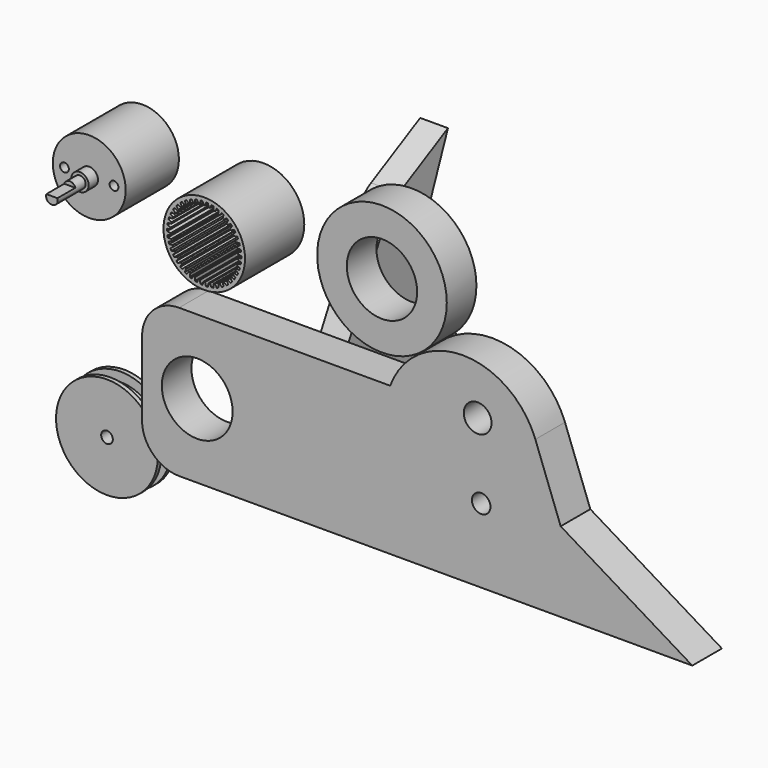
from build123d import *

# Parameters (mm, degrees)
F0_R      = 13.98243
F1_DEPTH  = 25.4
F2_R      = 22.225
F2_R_2    = 12.065
F3_DEPTH  = 12.7
F4_R      = 12.5
F5_DEPTH  = 22.81
F6_R      = 3
F7_DEPTH  = 4
F8_R      = 2
F9_DEPTH  = 12
F11_DEPTH = 7.6708
F12_R     = 1.5
F13_DEPTH = 12.7
F14_R     = 2.635366
F15_DEPTH = 2.54
F16_R     = 14.3256
F17_DEPTH = 4.3
F18_R     = 17.475623
F19_DEPTH = 1.5
F20_R     = 17.469868
F21_DEPTH = 1.5
F22_R     = 6.35
F23_DEPTH = 4.6
F24_R     = 2
F25_DEPTH = 44.911
F27_DEPTH = 12.7
F28_R     = 12.1412
F28_R_2   = 3.175
F28_R_3   = 4.7625
F29_DEPTH = 18.801
F31_DEPTH = 9.525


with BuildPart() as f1:
    # F0 (on Front) → F1 (new body)
    with BuildSketch(Plane.XZ):
        with BuildLine():
            Line((11.531754, 41.759685), (12.694844, 41.522345))
            ThreePointArc((12.694844, 41.522345), (12.683065, 41.816135), (12.664488, 42.109573))
            ThreePointArc((12.664488, 42.109573), (12.639123, 42.402502), (12.606983, 42.694766))
            Line((12.606983, 42.694766), (11.492258, 42.286727))
            Line((11.492258, 42.286727), (11.512006, 42.023206))
            Line((11.512006, 42.023206), (11.531754, 41.759685))
        make_face()
        with BuildLine():
            ThreePointArc((12.664488, 40.211428), (12.683065, 40.504866), (12.694844, 40.798656))
            Line((12.694844, 40.798656), (11.531754, 40.561315))
            Line((11.531754, 40.561315), (11.512006, 40.297795))
            Line((11.512006, 40.297795), (11.492258, 40.034274))
            Line((11.492258, 40.034274), (12.606983, 39.626235))
            ThreePointArc((12.606983, 39.626235), (12.639123, 39.918499), (12.664488, 40.211428))
        make_face()
        with BuildLine():
            Line((11.31365, 43.471712), (12.499123, 43.410372))
            ThreePointArc((12.499123, 43.410372), (12.443689, 43.699125), (12.381584, 43.986516))
            ThreePointArc((12.381584, 43.986516), (12.312844, 44.272393), (12.237503, 44.556603))
            Line((12.237503, 44.556603), (11.196044, 43.98698))
            Line((11.196044, 43.98698), (11.254847, 43.729346))
            Line((11.254847, 43.729346), (11.31365, 43.471712))
        make_face()
        with BuildLine():
            ThreePointArc((12.381584, 38.334485), (12.443689, 38.621876), (12.499123, 38.910629))
            Line((12.499123, 38.910629), (11.31365, 38.849289))
            Line((11.31365, 38.849289), (11.254847, 38.591655))
            Line((11.254847, 38.591655), (11.196044, 38.334021))
            Line((11.196044, 38.334021), (12.237503, 37.764398))
            ThreePointArc((12.237503, 37.764398), (12.312844, 38.048608), (12.381584, 38.334485))
        make_face()
        with BuildLine():
            Line((10.842818, 45.13211), (12.024192, 45.24814))
            ThreePointArc((12.024192, 45.24814), (11.926341, 45.525406), (11.822097, 45.800331))
            ThreePointArc((11.822097, 45.800331), (11.711516, 46.07277), (11.594658, 46.342576))
            Line((11.594658, 46.342576), (10.649728, 45.624094))
            Line((10.649728, 45.624094), (10.746273, 45.378102))
            Line((10.746273, 45.378102), (10.842818, 45.13211))
        make_face()
        with BuildLine():
            ThreePointArc((11.822097, 36.520669), (11.926341, 36.795595), (12.024192, 37.072861))
            Line((12.024192, 37.072861), (10.842818, 37.188891))
            Line((10.842818, 37.188891), (10.746273, 36.942899))
            Line((10.746273, 36.942899), (10.649728, 36.696907))
            Line((10.649728, 36.696907), (11.594658, 35.978425))
            ThreePointArc((11.594658, 35.978425), (11.711516, 36.248231), (11.822097, 36.520669))
        make_face()
        with BuildLine():
            Line((10.129775, 46.703788), (11.280661, 46.994598))
            ThreePointArc((11.280661, 46.994598), (11.142578, 47.254182), (10.998523, 47.5105))
            ThreePointArc((10.998523, 47.5105), (10.848572, 47.763415), (10.692807, 48.012791))
            Line((10.692807, 48.012791), (9.865515, 47.161499))
            Line((9.865515, 47.161499), (9.997645, 46.932644))
            Line((9.997645, 46.932644), (10.129775, 46.703788))
        make_face()
        with BuildLine():
            ThreePointArc((10.998523, 34.8105), (11.142578, 35.066819), (11.280661, 35.326403))
            Line((11.280661, 35.326403), (10.129775, 35.617213))
            Line((10.129775, 35.617213), (9.997645, 35.388357))
            Line((9.997645, 35.388357), (9.865515, 35.159502))
            Line((9.865515, 35.159502), (10.692807, 34.30821))
            ThreePointArc((10.692807, 34.30821), (10.848572, 34.557586), (10.998523, 34.8105))
        make_face()
        with BuildLine():
            Line((9.190449, 48.151639), (10.285138, 48.610731))
            ThreePointArc((10.285138, 48.610731), (10.109908, 48.846836), (9.92926, 49.078821))
            ThreePointArc((9.92926, 49.078821), (9.743289, 49.306562), (9.552096, 49.529936))
            Line((9.552096, 49.529936), (8.860923, 48.564852))
            Line((8.860923, 48.564852), (9.025686, 48.358245))
            Line((9.025686, 48.358245), (9.190449, 48.151639))
        make_face()
        with BuildLine():
            ThreePointArc((9.92926, 33.24218), (10.109908, 33.474165), (10.285138, 33.71027))
            Line((10.285138, 33.71027), (9.190449, 34.169362))
            Line((9.190449, 34.169362), (9.025686, 33.962756))
            Line((9.025686, 33.962756), (8.860923, 33.756149))
            Line((8.860923, 33.756149), (9.552096, 32.791064))
            ThreePointArc((9.552096, 32.791064), (9.743289, 33.014439), (9.92926, 33.24218))
        make_face()
        with BuildLine():
            Line((8.045825, 49.443319), (9.059862, 50.060438))
            ThreePointArc((9.059862, 50.060438), (8.8514, 50.26779), (8.638194, 50.470259))
            ThreePointArc((8.638194, 50.470259), (8.420357, 50.667739), (8.198007, 50.860123))
            Line((8.198007, 50.860123), (7.658393, 49.802803))
            Line((7.658393, 49.802803), (7.852109, 49.623061))
            Line((7.852109, 49.623061), (8.045825, 49.443319))
        make_face()
        with BuildLine():
            ThreePointArc((8.638194, 31.850742), (8.8514, 32.053211), (9.059862, 32.260563))
            Line((9.059862, 32.260563), (8.045825, 32.877682))
            Line((8.045825, 32.877682), (7.852109, 32.69794))
            Line((7.852109, 32.69794), (7.658393, 32.518198))
            Line((7.658393, 32.518198), (8.198007, 31.460878))
            ThreePointArc((8.198007, 31.460878), (8.420357, 31.653262), (8.638194, 31.850742))
        make_face()
        with BuildLine():
            Line((6.721469, 50.549975), (7.632204, 51.311336))
            ThreePointArc((7.632204, 51.311336), (7.395166, 51.485301), (7.154165, 51.653733))
            ThreePointArc((7.154165, 51.653733), (6.909328, 51.81654), (6.660789, 51.973636))
            Line((6.660789, 51.973636), (6.284786, 50.8477))
            Line((6.284786, 50.8477), (6.503128, 50.698837))
            Line((6.503128, 50.698837), (6.721469, 50.549975))
        make_face()
        with BuildLine():
            ThreePointArc((7.154165, 30.667268), (7.395166, 30.8357), (7.632204, 31.009665))
            Line((7.632204, 31.009665), (6.721469, 31.771026))
            Line((6.721469, 31.771026), (6.503128, 31.622164))
            Line((6.503128, 31.622164), (6.284786, 31.473301))
            Line((6.284786, 31.473301), (6.660789, 30.347365))
            ThreePointArc((6.660789, 30.347365), (6.909328, 30.504461), (7.154165, 30.667268))
        make_face()
        with BuildLine():
            Line((5.246968, 51.446885), (6.034055, 52.33548))
            ThreePointArc((6.034055, 52.33548), (5.773737, 52.472174), (5.510323, 52.602805))
            ThreePointArc((5.510323, 52.602805), (5.243957, 52.727303), (4.974779, 52.845601))
            Line((4.974779, 52.845601), (4.770788, 51.676201))
            Line((4.770788, 51.676201), (5.008878, 51.561543))
            Line((5.008878, 51.561543), (5.246968, 51.446885))
        make_face()
        with BuildLine():
            ThreePointArc((5.510323, 29.718196), (5.773737, 29.848827), (6.034055, 29.985521))
            Line((6.034055, 29.985521), (5.246968, 30.874116))
            Line((5.246968, 30.874116), (5.008878, 30.759458))
            Line((5.008878, 30.759458), (4.770788, 30.6448))
            Line((4.770788, 30.6448), (4.974779, 29.4754))
            ThreePointArc((4.974779, 29.4754), (5.243957, 29.593698), (5.510323, 29.718196))
        make_face()
        with BuildLine():
            Line((3.655257, 52.114014), (4.301116, 53.109994))
            ThreePointArc((4.301116, 53.109994), (4.023331, 53.206363), (3.743391, 53.296275))
            ThreePointArc((3.743391, 53.296275), (3.461444, 53.379682), (3.177641, 53.45654))
            Line((3.177641, 53.45654), (3.150219, 52.269798))
            Line((3.150219, 52.269798), (3.402738, 52.191906))
            Line((3.402738, 52.191906), (3.655257, 52.114014))
        make_face()
        with BuildLine():
            ThreePointArc((3.743391, 29.024726), (4.023331, 29.114638), (4.301116, 29.211007))
            Line((4.301116, 29.211007), (3.655257, 30.206986))
            Line((3.655257, 30.206986), (3.402738, 30.129095))
            Line((3.402738, 30.129095), (3.150219, 30.051203))
            Line((3.150219, 30.051203), (3.177641, 28.864461))
            ThreePointArc((3.177641, 28.864461), (3.461444, 28.941318), (3.743391, 29.024726))
        make_face()
        with BuildLine():
            Line((1.981895, 52.536461), (2.472096, 53.617576))
            ThreePointArc((2.472096, 53.617576), (2.183051, 53.671467), (1.892837, 53.718652))
            ThreePointArc((1.892837, 53.718652), (1.601608, 53.759106), (1.30952, 53.792807))
            Line((1.30952, 53.792807), (1.459279, 52.615232))
            Line((1.459279, 52.615232), (1.720587, 52.575846))
            Line((1.720587, 52.575846), (1.981895, 52.536461))
        make_face()
        with BuildLine():
            ThreePointArc((1.892837, 28.602349), (2.183051, 28.649534), (2.472096, 28.703425))
            Line((2.472096, 28.703425), (1.981895, 29.78454))
            Line((1.981895, 29.78454), (1.720587, 29.745154))
            Line((1.720587, 29.745154), (1.459279, 29.705769))
            Line((1.459279, 29.705769), (1.30952, 28.528194))
            ThreePointArc((1.30952, 28.528194), (1.601608, 28.561895), (1.892837, 28.602349))
        make_face()
        with BuildLine():
            Line((0.26426, 52.704787), (0.587854, 53.846888))
            ThreePointArc((0.587854, 53.846888), (0.294006, 53.857097), (0, 53.8605))
            ThreePointArc((0, 53.8605), (-0.294006, 53.857097), (-0.587854, 53.846888))
            Line((-0.587854, 53.846888), (-0.26426, 52.704787))
            Line((-0.26426, 52.704787), (0, 52.704787))
            Line((0, 52.704787), (0.26426, 52.704787))
        make_face()
        with BuildLine():
            ThreePointArc((0, 28.4605), (0.294006, 28.463904), (0.587854, 28.474113))
            Line((0.587854, 28.474113), (0.26426, 29.616214))
            Line((0.26426, 29.616214), (0, 29.616214))
            Line((0, 29.616214), (-0.26426, 29.616214))
            Line((-0.26426, 29.616214), (-0.587854, 28.474113))
            ThreePointArc((-0.587854, 28.474113), (-0.294006, 28.463904), (0, 28.4605))
        make_face()
        with BuildLine():
            Line((-1.459279, 52.615232), (-1.30952, 53.792807))
            ThreePointArc((-1.30952, 53.792807), (-1.601608, 53.759106), (-1.892837, 53.718652))
            ThreePointArc((-1.892837, 53.718652), (-2.183051, 53.671467), (-2.472096, 53.617576))
            Line((-2.472096, 53.617576), (-1.981895, 52.536461))
            Line((-1.981895, 52.536461), (-1.720587, 52.575846))
            Line((-1.720587, 52.575846), (-1.459279, 52.615232))
        make_face()
        with BuildLine():
            ThreePointArc((-1.892837, 28.602349), (-1.601608, 28.561895), (-1.30952, 28.528194))
            Line((-1.30952, 28.528194), (-1.459279, 29.705769))
            Line((-1.459279, 29.705769), (-1.720587, 29.745154))
            Line((-1.720587, 29.745154), (-1.981895, 29.78454))
            Line((-1.981895, 29.78454), (-2.472096, 28.703425))
            ThreePointArc((-2.472096, 28.703425), (-2.183051, 28.649534), (-1.892837, 28.602349))
        make_face()
        with BuildLine():
            Line((-3.150219, 52.269798), (-3.177641, 53.45654))
            ThreePointArc((-3.177641, 53.45654), (-3.461444, 53.379682), (-3.743391, 53.296275))
            ThreePointArc((-3.743391, 53.296275), (-4.023331, 53.206363), (-4.301116, 53.109994))
            Line((-4.301116, 53.109994), (-3.655257, 52.114014))
            Line((-3.655257, 52.114014), (-3.402738, 52.191906))
            Line((-3.402738, 52.191906), (-3.150219, 52.269798))
        make_face()
        with BuildLine():
            ThreePointArc((-3.743391, 29.024726), (-3.461444, 28.941318), (-3.177641, 28.864461))
            Line((-3.177641, 28.864461), (-3.150219, 30.051203))
            Line((-3.150219, 30.051203), (-3.402738, 30.129095))
            Line((-3.402738, 30.129095), (-3.655257, 30.206986))
            Line((-3.655257, 30.206986), (-4.301116, 29.211007))
            ThreePointArc((-4.301116, 29.211007), (-4.023331, 29.114638), (-3.743391, 29.024726))
        make_face()
        with BuildLine():
            Line((-4.770788, 51.676201), (-4.974779, 52.845601))
            ThreePointArc((-4.974779, 52.845601), (-5.243957, 52.727303), (-5.510323, 52.602805))
            ThreePointArc((-5.510323, 52.602805), (-5.773737, 52.472174), (-6.034055, 52.33548))
            Line((-6.034055, 52.33548), (-5.246968, 51.446885))
            Line((-5.246968, 51.446885), (-5.008878, 51.561543))
            Line((-5.008878, 51.561543), (-4.770788, 51.676201))
        make_face()
        with BuildLine():
            ThreePointArc((-5.510323, 29.718196), (-5.243957, 29.593698), (-4.974779, 29.4754))
            Line((-4.974779, 29.4754), (-4.770788, 30.6448))
            Line((-4.770788, 30.6448), (-5.008878, 30.759458))
            Line((-5.008878, 30.759458), (-5.246968, 30.874116))
            Line((-5.246968, 30.874116), (-6.034055, 29.985521))
            ThreePointArc((-6.034055, 29.985521), (-5.773737, 29.848827), (-5.510323, 29.718196))
        make_face()
        with BuildLine():
            Line((-6.284786, 50.8477), (-6.660789, 51.973636))
            ThreePointArc((-6.660789, 51.973636), (-6.909328, 51.81654), (-7.154165, 51.653733))
            ThreePointArc((-7.154165, 51.653733), (-7.395166, 51.485301), (-7.632204, 51.311336))
            Line((-7.632204, 51.311336), (-6.721469, 50.549975))
            Line((-6.721469, 50.549975), (-6.503128, 50.698837))
            Line((-6.503128, 50.698837), (-6.284786, 50.8477))
        make_face()
        with BuildLine():
            ThreePointArc((-7.154165, 30.667268), (-6.909328, 30.504461), (-6.660789, 30.347365))
            Line((-6.660789, 30.347365), (-6.284786, 31.473301))
            Line((-6.284786, 31.473301), (-6.503128, 31.622164))
            Line((-6.503128, 31.622164), (-6.721469, 31.771026))
            Line((-6.721469, 31.771026), (-7.632204, 31.009665))
            ThreePointArc((-7.632204, 31.009665), (-7.395166, 30.8357), (-7.154165, 30.667268))
        make_face()
        with BuildLine():
            Line((-7.658393, 49.802803), (-8.198007, 50.860123))
            ThreePointArc((-8.198007, 50.860123), (-8.420357, 50.667739), (-8.638194, 50.470259))
            ThreePointArc((-8.638194, 50.470259), (-8.8514, 50.26779), (-9.059862, 50.060438))
            Line((-9.059862, 50.060438), (-8.045825, 49.443319))
            Line((-8.045825, 49.443319), (-7.852109, 49.623061))
            Line((-7.852109, 49.623061), (-7.658393, 49.802803))
        make_face()
        with BuildLine():
            ThreePointArc((-8.638194, 31.850742), (-8.420357, 31.653262), (-8.198007, 31.460878))
            Line((-8.198007, 31.460878), (-7.658393, 32.518198))
            Line((-7.658393, 32.518198), (-7.852109, 32.69794))
            Line((-7.852109, 32.69794), (-8.045825, 32.877682))
            Line((-8.045825, 32.877682), (-9.059862, 32.260563))
            ThreePointArc((-9.059862, 32.260563), (-8.8514, 32.053211), (-8.638194, 31.850742))
        make_face()
        with BuildLine():
            Line((-8.860923, 48.564852), (-9.552096, 49.529936))
            ThreePointArc((-9.552096, 49.529936), (-9.743289, 49.306562), (-9.92926, 49.078821))
            ThreePointArc((-9.92926, 49.078821), (-10.109908, 48.846836), (-10.285138, 48.610731))
            Line((-10.285138, 48.610731), (-9.190449, 48.151639))
            Line((-9.190449, 48.151639), (-9.025686, 48.358245))
            Line((-9.025686, 48.358245), (-8.860923, 48.564852))
        make_face()
        with BuildLine():
            ThreePointArc((-9.92926, 33.24218), (-9.743289, 33.014439), (-9.552096, 32.791064))
            Line((-9.552096, 32.791064), (-8.860923, 33.756149))
            Line((-8.860923, 33.756149), (-9.025686, 33.962756))
            Line((-9.025686, 33.962756), (-9.190449, 34.169362))
            Line((-9.190449, 34.169362), (-10.285138, 33.71027))
            ThreePointArc((-10.285138, 33.71027), (-10.109908, 33.474165), (-9.92926, 33.24218))
        make_face()
        with BuildLine():
            Line((-9.865515, 47.161499), (-10.692807, 48.012791))
            ThreePointArc((-10.692807, 48.012791), (-10.848572, 47.763415), (-10.998523, 47.5105))
            ThreePointArc((-10.998523, 47.5105), (-11.142578, 47.254182), (-11.280661, 46.994598))
            Line((-11.280661, 46.994598), (-10.129775, 46.703788))
            Line((-10.129775, 46.703788), (-9.997645, 46.932644))
            Line((-9.997645, 46.932644), (-9.865515, 47.161499))
        make_face()
        with BuildLine():
            ThreePointArc((-10.998523, 34.8105), (-10.848572, 34.557586), (-10.692807, 34.30821))
            Line((-10.692807, 34.30821), (-9.865515, 35.159502))
            Line((-9.865515, 35.159502), (-9.997645, 35.388357))
            Line((-9.997645, 35.388357), (-10.129775, 35.617213))
            Line((-10.129775, 35.617213), (-11.280661, 35.326403))
            ThreePointArc((-11.280661, 35.326403), (-11.142578, 35.066819), (-10.998523, 34.8105))
        make_face()
        with BuildLine():
            Line((-10.649728, 45.624094), (-11.594658, 46.342576))
            ThreePointArc((-11.594658, 46.342576), (-11.711516, 46.07277), (-11.822097, 45.800331))
            ThreePointArc((-11.822097, 45.800331), (-11.926341, 45.525406), (-12.024192, 45.24814))
            Line((-12.024192, 45.24814), (-10.842818, 45.13211))
            Line((-10.842818, 45.13211), (-10.746273, 45.378102))
            Line((-10.746273, 45.378102), (-10.649728, 45.624094))
        make_face()
        with BuildLine():
            ThreePointArc((-11.822097, 36.520669), (-11.711516, 36.248231), (-11.594658, 35.978425))
            Line((-11.594658, 35.978425), (-10.649728, 36.696907))
            Line((-10.649728, 36.696907), (-10.746273, 36.942899))
            Line((-10.746273, 36.942899), (-10.842818, 37.188891))
            Line((-10.842818, 37.188891), (-12.024192, 37.072861))
            ThreePointArc((-12.024192, 37.072861), (-11.926341, 36.795595), (-11.822097, 36.520669))
        make_face()
        with BuildLine():
            Line((-11.196044, 43.98698), (-12.237503, 44.556603))
            ThreePointArc((-12.237503, 44.556603), (-12.312844, 44.272393), (-12.381584, 43.986516))
            ThreePointArc((-12.381584, 43.986516), (-12.443689, 43.699125), (-12.499123, 43.410372))
            Line((-12.499123, 43.410372), (-11.31365, 43.471712))
            Line((-11.31365, 43.471712), (-11.254847, 43.729346))
            Line((-11.254847, 43.729346), (-11.196044, 43.98698))
        make_face()
        with BuildLine():
            ThreePointArc((-12.381584, 38.334485), (-12.312844, 38.048608), (-12.237503, 37.764398))
            Line((-12.237503, 37.764398), (-11.196044, 38.334021))
            Line((-11.196044, 38.334021), (-11.254847, 38.591655))
            Line((-11.254847, 38.591655), (-11.31365, 38.849289))
            Line((-11.31365, 38.849289), (-12.499123, 38.910629))
            ThreePointArc((-12.499123, 38.910629), (-12.443689, 38.621876), (-12.381584, 38.334485))
        make_face()
        with BuildLine():
            Line((-11.492258, 42.286727), (-12.606983, 42.694766))
            ThreePointArc((-12.606983, 42.694766), (-12.639123, 42.402502), (-12.664488, 42.109573))
            ThreePointArc((-12.664488, 42.109573), (-12.683065, 41.816135), (-12.694844, 41.522345))
            Line((-12.694844, 41.522345), (-11.531754, 41.759685))
            Line((-11.531754, 41.759685), (-11.512006, 42.023206))
            Line((-11.512006, 42.023206), (-11.492258, 42.286727))
        make_face()
        with BuildLine():
            ThreePointArc((-12.664488, 40.211428), (-12.639123, 39.918499), (-12.606983, 39.626235))
            Line((-12.606983, 39.626235), (-11.492258, 40.034274))
            Line((-11.492258, 40.034274), (-11.512006, 40.297795))
            Line((-11.512006, 40.297795), (-11.531754, 40.561315))
            Line((-11.531754, 40.561315), (-12.694844, 40.798656))
            ThreePointArc((-12.694844, 40.798656), (-12.683065, 40.504866), (-12.664488, 40.211428))
        make_face()
        with Locations((0, 41.1605)):
            Circle(F0_R)
        with BuildLine():
            ThreePointArc((12.694844, 41.522345), (12.698711, 41.341441), (12.7, 41.1605))
            ThreePointArc((12.7, 41.1605), (12.698711, 40.97956), (12.694844, 40.798656))
            ThreePointArc((12.694844, 40.798656), (12.683065, 40.504866), (12.664488, 40.211428))
            ThreePointArc((12.664488, 40.211428), (12.639123, 39.918499), (12.606983, 39.626235))
            ThreePointArc((12.606983, 39.626235), (12.558151, 39.267664), (12.499123, 38.910629))
            ThreePointArc((12.499123, 38.910629), (12.443689, 38.621876), (12.381584, 38.334485))
            ThreePointArc((12.381584, 38.334485), (12.312844, 38.048608), (12.237503, 37.764398))
            ThreePointArc((12.237503, 37.764398), (12.135775, 37.41711), (12.024192, 37.072861))
            ThreePointArc((12.024192, 37.072861), (11.926341, 36.795595), (11.822097, 36.520669))
            ThreePointArc((11.822097, 36.520669), (11.711516, 36.248231), (11.594658, 35.978425))
            ThreePointArc((11.594658, 35.978425), (11.442305, 35.650177), (11.280661, 35.326403))
            ThreePointArc((11.280661, 35.326403), (11.142578, 35.066819), (10.998523, 34.8105))
            ThreePointArc((10.998523, 34.8105), (10.848572, 34.557586), (10.692807, 34.30821))
            ThreePointArc((10.692807, 34.30821), (10.493232, 34.006336), (10.285138, 33.71027))
            ThreePointArc((10.285138, 33.71027), (10.109908, 33.474165), (9.92926, 33.24218))
            ThreePointArc((9.92926, 33.24218), (9.743289, 33.014439), (9.552096, 32.791064))
            ThreePointArc((9.552096, 32.791064), (9.309759, 32.522307), (9.059862, 32.260563))
            ThreePointArc((9.059862, 32.260563), (8.8514, 32.053211), (8.638194, 31.850742))
            ThreePointArc((8.638194, 31.850742), (8.420357, 31.653262), (8.198007, 31.460878))
            ThreePointArc((8.198007, 31.460878), (7.91832, 31.231241), (7.632204, 31.009665))
            ThreePointArc((7.632204, 31.009665), (7.395166, 30.8357), (7.154165, 30.667268))
            ThreePointArc((7.154165, 30.667268), (6.909328, 30.504461), (6.660789, 30.347365))
            ThreePointArc((6.660789, 30.347365), (6.35, 30.161978), (6.034055, 29.985521))
            ThreePointArc((6.034055, 29.985521), (5.773737, 29.848827), (5.510323, 29.718196))
            ThreePointArc((5.510323, 29.718196), (5.243957, 29.593698), (4.974779, 29.4754))
            ThreePointArc((4.974779, 29.4754), (4.639831, 29.338404), (4.301116, 29.211007))
            ThreePointArc((4.301116, 29.211007), (4.023331, 29.114638), (3.743391, 29.024726))
            ThreePointArc((3.743391, 29.024726), (3.461444, 28.941318), (3.177641, 28.864461))
            ThreePointArc((3.177641, 28.864461), (2.826016, 28.778916), (2.472096, 28.703425))
            ThreePointArc((2.472096, 28.703425), (2.183051, 28.649534), (1.892837, 28.602349))
            ThreePointArc((1.892837, 28.602349), (1.601608, 28.561895), (1.30952, 28.528194))
            ThreePointArc((1.30952, 28.528194), (0.949072, 28.496012), (0.587854, 28.474113))
            ThreePointArc((0.587854, 28.474113), (0.294006, 28.463904), (0, 28.4605))
            ThreePointArc((0, 28.4605), (-0.294006, 28.463904), (-0.587854, 28.474113))
            ThreePointArc((-0.587854, 28.474113), (-0.949072, 28.496012), (-1.30952, 28.528194))
            ThreePointArc((-1.30952, 28.528194), (-1.601608, 28.561895), (-1.892837, 28.602349))
            ThreePointArc((-1.892837, 28.602349), (-2.183051, 28.649534), (-2.472096, 28.703425))
            ThreePointArc((-2.472096, 28.703425), (-2.826016, 28.778916), (-3.177641, 28.864461))
            ThreePointArc((-3.177641, 28.864461), (-3.461444, 28.941318), (-3.743391, 29.024726))
            ThreePointArc((-3.743391, 29.024726), (-4.023331, 29.114638), (-4.301116, 29.211007))
            ThreePointArc((-4.301116, 29.211007), (-4.639831, 29.338404), (-4.974779, 29.4754))
            ThreePointArc((-4.974779, 29.4754), (-5.243957, 29.593698), (-5.510323, 29.718196))
            ThreePointArc((-5.510323, 29.718196), (-5.773737, 29.848827), (-6.034055, 29.985521))
            ThreePointArc((-6.034055, 29.985521), (-6.35, 30.161978), (-6.660789, 30.347365))
            ThreePointArc((-6.660789, 30.347365), (-6.909328, 30.504461), (-7.154165, 30.667268))
            ThreePointArc((-7.154165, 30.667268), (-7.395166, 30.8357), (-7.632204, 31.009665))
            ThreePointArc((-7.632204, 31.009665), (-7.91832, 31.231241), (-8.198007, 31.460878))
            ThreePointArc((-8.198007, 31.460878), (-8.420357, 31.653262), (-8.638194, 31.850742))
            ThreePointArc((-8.638194, 31.850742), (-8.8514, 32.053211), (-9.059862, 32.260563))
            ThreePointArc((-9.059862, 32.260563), (-9.309759, 32.522307), (-9.552096, 32.791064))
            ThreePointArc((-9.552096, 32.791064), (-9.743289, 33.014439), (-9.92926, 33.24218))
            ThreePointArc((-9.92926, 33.24218), (-10.109908, 33.474165), (-10.285138, 33.71027))
            ThreePointArc((-10.285138, 33.71027), (-10.493232, 34.006336), (-10.692807, 34.30821))
            ThreePointArc((-10.692807, 34.30821), (-10.848572, 34.557586), (-10.998523, 34.8105))
            ThreePointArc((-10.998523, 34.8105), (-11.142578, 35.066819), (-11.280661, 35.326403))
            ThreePointArc((-11.280661, 35.326403), (-11.442305, 35.650177), (-11.594658, 35.978425))
            ThreePointArc((-11.594658, 35.978425), (-11.711516, 36.248231), (-11.822097, 36.520669))
            ThreePointArc((-11.822097, 36.520669), (-11.926341, 36.795595), (-12.024192, 37.072861))
            ThreePointArc((-12.024192, 37.072861), (-12.135775, 37.41711), (-12.237503, 37.764398))
            ThreePointArc((-12.237503, 37.764398), (-12.312844, 38.048608), (-12.381584, 38.334485))
            ThreePointArc((-12.381584, 38.334485), (-12.443689, 38.621876), (-12.499123, 38.910629))
            ThreePointArc((-12.499123, 38.910629), (-12.558151, 39.267664), (-12.606983, 39.626235))
            ThreePointArc((-12.606983, 39.626235), (-12.639123, 39.918499), (-12.664488, 40.211428))
            ThreePointArc((-12.664488, 40.211428), (-12.683065, 40.504866), (-12.694844, 40.798656))
            ThreePointArc((-12.694844, 40.798656), (-12.7, 41.1605), (-12.694844, 41.522345))
            ThreePointArc((-12.694844, 41.522345), (-12.683065, 41.816135), (-12.664488, 42.109573))
            ThreePointArc((-12.664488, 42.109573), (-12.639123, 42.402502), (-12.606983, 42.694766))
            ThreePointArc((-12.606983, 42.694766), (-12.558151, 43.053337), (-12.499123, 43.410372))
            ThreePointArc((-12.499123, 43.410372), (-12.443689, 43.699125), (-12.381584, 43.986516))
            ThreePointArc((-12.381584, 43.986516), (-12.312844, 44.272393), (-12.237503, 44.556603))
            ThreePointArc((-12.237503, 44.556603), (-12.135775, 44.903891), (-12.024192, 45.24814))
            ThreePointArc((-12.024192, 45.24814), (-11.926341, 45.525406), (-11.822097, 45.800331))
            ThreePointArc((-11.822097, 45.800331), (-11.711516, 46.07277), (-11.594658, 46.342576))
            ThreePointArc((-11.594658, 46.342576), (-11.442305, 46.670824), (-11.280661, 46.994598))
            ThreePointArc((-11.280661, 46.994598), (-11.142578, 47.254182), (-10.998523, 47.5105))
            ThreePointArc((-10.998523, 47.5105), (-10.848572, 47.763415), (-10.692807, 48.012791))
            ThreePointArc((-10.692807, 48.012791), (-10.493232, 48.314665), (-10.285138, 48.610731))
            ThreePointArc((-10.285138, 48.610731), (-10.109908, 48.846836), (-9.92926, 49.078821))
            ThreePointArc((-9.92926, 49.078821), (-9.743289, 49.306562), (-9.552096, 49.529936))
            ThreePointArc((-9.552096, 49.529936), (-9.309759, 49.798694), (-9.059862, 50.060438))
            ThreePointArc((-9.059862, 50.060438), (-8.8514, 50.26779), (-8.638194, 50.470259))
            ThreePointArc((-8.638194, 50.470259), (-8.420357, 50.667739), (-8.198007, 50.860123))
            ThreePointArc((-8.198007, 50.860123), (-7.91832, 51.08976), (-7.632204, 51.311336))
            ThreePointArc((-7.632204, 51.311336), (-7.395166, 51.485301), (-7.154165, 51.653733))
            ThreePointArc((-7.154165, 51.653733), (-6.909328, 51.81654), (-6.660789, 51.973636))
            ThreePointArc((-6.660789, 51.973636), (-6.35, 52.159023), (-6.034055, 52.33548))
            ThreePointArc((-6.034055, 52.33548), (-5.773737, 52.472174), (-5.510323, 52.602805))
            ThreePointArc((-5.510323, 52.602805), (-5.243957, 52.727303), (-4.974779, 52.845601))
            ThreePointArc((-4.974779, 52.845601), (-4.639831, 52.982597), (-4.301116, 53.109994))
            ThreePointArc((-4.301116, 53.109994), (-4.023331, 53.206363), (-3.743391, 53.296275))
            ThreePointArc((-3.743391, 53.296275), (-3.461444, 53.379682), (-3.177641, 53.45654))
            ThreePointArc((-3.177641, 53.45654), (-2.826016, 53.542085), (-2.472096, 53.617576))
            ThreePointArc((-2.472096, 53.617576), (-2.183051, 53.671467), (-1.892837, 53.718652))
            ThreePointArc((-1.892837, 53.718652), (-1.601608, 53.759106), (-1.30952, 53.792807))
            ThreePointArc((-1.30952, 53.792807), (-0.949072, 53.824989), (-0.587854, 53.846888))
            ThreePointArc((-0.587854, 53.846888), (-0.294006, 53.857097), (0, 53.8605))
            ThreePointArc((0, 53.8605), (0.294006, 53.857097), (0.587854, 53.846888))
            ThreePointArc((0.587854, 53.846888), (0.949072, 53.824989), (1.30952, 53.792807))
            ThreePointArc((1.30952, 53.792807), (1.601608, 53.759106), (1.892837, 53.718652))
            ThreePointArc((1.892837, 53.718652), (2.183051, 53.671467), (2.472096, 53.617576))
            ThreePointArc((2.472096, 53.617576), (2.826016, 53.542085), (3.177641, 53.45654))
            ThreePointArc((3.177641, 53.45654), (3.461444, 53.379682), (3.743391, 53.296275))
            ThreePointArc((3.743391, 53.296275), (4.023331, 53.206363), (4.301116, 53.109994))
            ThreePointArc((4.301116, 53.109994), (4.639831, 52.982597), (4.974779, 52.845601))
            ThreePointArc((4.974779, 52.845601), (5.243957, 52.727303), (5.510323, 52.602805))
            ThreePointArc((5.510323, 52.602805), (5.773737, 52.472174), (6.034055, 52.33548))
            ThreePointArc((6.034055, 52.33548), (6.35, 52.159023), (6.660789, 51.973636))
            ThreePointArc((6.660789, 51.973636), (6.909328, 51.81654), (7.154165, 51.653733))
            ThreePointArc((7.154165, 51.653733), (7.395166, 51.485301), (7.632204, 51.311336))
            ThreePointArc((7.632204, 51.311336), (7.91832, 51.08976), (8.198007, 50.860123))
            ThreePointArc((8.198007, 50.860123), (8.420357, 50.667739), (8.638194, 50.470259))
            ThreePointArc((8.638194, 50.470259), (8.8514, 50.26779), (9.059862, 50.060438))
            ThreePointArc((9.059862, 50.060438), (9.309759, 49.798694), (9.552096, 49.529936))
            ThreePointArc((9.552096, 49.529936), (9.743289, 49.306562), (9.92926, 49.078821))
            ThreePointArc((9.92926, 49.078821), (10.109908, 48.846836), (10.285138, 48.610731))
            ThreePointArc((10.285138, 48.610731), (10.493232, 48.314665), (10.692807, 48.012791))
            ThreePointArc((10.692807, 48.012791), (10.848572, 47.763415), (10.998523, 47.5105))
            ThreePointArc((10.998523, 47.5105), (11.142578, 47.254182), (11.280661, 46.994598))
            ThreePointArc((11.280661, 46.994598), (11.442305, 46.670824), (11.594658, 46.342576))
            ThreePointArc((11.594658, 46.342576), (11.711516, 46.07277), (11.822097, 45.800331))
            ThreePointArc((11.822097, 45.800331), (11.926341, 45.525406), (12.024192, 45.24814))
            ThreePointArc((12.024192, 45.24814), (12.135775, 44.903891), (12.237503, 44.556603))
            ThreePointArc((12.237503, 44.556603), (12.312844, 44.272393), (12.381584, 43.986516))
            ThreePointArc((12.381584, 43.986516), (12.443689, 43.699125), (12.499123, 43.410372))
            ThreePointArc((12.499123, 43.410372), (12.558151, 43.053337), (12.606983, 42.694766))
            ThreePointArc((12.606983, 42.694766), (12.639123, 42.402502), (12.664488, 42.109573))
            ThreePointArc((12.664488, 42.109573), (12.683065, 41.816135), (12.694844, 41.522345))
        make_face(mode=Mode.SUBTRACT)
        with BuildLine():
            Line((-6.284786, 50.8477), (-6.660789, 51.973636))
            ThreePointArc((-6.660789, 51.973636), (-6.909328, 51.81654), (-7.154165, 51.653733))
            ThreePointArc((-7.154165, 51.653733), (-7.395166, 51.485301), (-7.632204, 51.311336))
            Line((-7.632204, 51.311336), (-6.721469, 50.549975))
            Line((-6.721469, 50.549975), (-6.503128, 50.698837))
            Line((-6.503128, 50.698837), (-6.284786, 50.8477))
        make_face()
        with BuildLine():
            Line((-7.658393, 49.802803), (-8.198007, 50.860123))
            ThreePointArc((-8.198007, 50.860123), (-8.420357, 50.667739), (-8.638194, 50.470259))
            ThreePointArc((-8.638194, 50.470259), (-8.8514, 50.26779), (-9.059862, 50.060438))
            Line((-9.059862, 50.060438), (-8.045825, 49.443319))
            Line((-8.045825, 49.443319), (-7.852109, 49.623061))
            Line((-7.852109, 49.623061), (-7.658393, 49.802803))
        make_face()
        with BuildLine():
            Line((-8.860923, 48.564852), (-9.552096, 49.529936))
            ThreePointArc((-9.552096, 49.529936), (-9.743289, 49.306562), (-9.92926, 49.078821))
            ThreePointArc((-9.92926, 49.078821), (-10.109908, 48.846836), (-10.285138, 48.610731))
            Line((-10.285138, 48.610731), (-9.190449, 48.151639))
            Line((-9.190449, 48.151639), (-9.025686, 48.358245))
            Line((-9.025686, 48.358245), (-8.860923, 48.564852))
        make_face()
        with BuildLine():
            Line((-9.865515, 47.161499), (-10.692807, 48.012791))
            ThreePointArc((-10.692807, 48.012791), (-10.848572, 47.763415), (-10.998523, 47.5105))
            ThreePointArc((-10.998523, 47.5105), (-11.142578, 47.254182), (-11.280661, 46.994598))
            Line((-11.280661, 46.994598), (-10.129775, 46.703788))
            Line((-10.129775, 46.703788), (-9.997645, 46.932644))
            Line((-9.997645, 46.932644), (-9.865515, 47.161499))
        make_face()
        with BuildLine():
            Line((-10.649728, 45.624094), (-11.594658, 46.342576))
            ThreePointArc((-11.594658, 46.342576), (-11.711516, 46.07277), (-11.822097, 45.800331))
            ThreePointArc((-11.822097, 45.800331), (-11.926341, 45.525406), (-12.024192, 45.24814))
            Line((-12.024192, 45.24814), (-10.842818, 45.13211))
            Line((-10.842818, 45.13211), (-10.746273, 45.378102))
            Line((-10.746273, 45.378102), (-10.649728, 45.624094))
        make_face()
        with BuildLine():
            Line((-11.196044, 43.98698), (-12.237503, 44.556603))
            ThreePointArc((-12.237503, 44.556603), (-12.312844, 44.272393), (-12.381584, 43.986516))
            ThreePointArc((-12.381584, 43.986516), (-12.443689, 43.699125), (-12.499123, 43.410372))
            Line((-12.499123, 43.410372), (-11.31365, 43.471712))
            Line((-11.31365, 43.471712), (-11.254847, 43.729346))
            Line((-11.254847, 43.729346), (-11.196044, 43.98698))
        make_face()
        with BuildLine():
            Line((-11.492258, 42.286727), (-12.606983, 42.694766))
            ThreePointArc((-12.606983, 42.694766), (-12.639123, 42.402502), (-12.664488, 42.109573))
            ThreePointArc((-12.664488, 42.109573), (-12.683065, 41.816135), (-12.694844, 41.522345))
            Line((-12.694844, 41.522345), (-11.531754, 41.759685))
            Line((-11.531754, 41.759685), (-11.512006, 42.023206))
            Line((-11.512006, 42.023206), (-11.492258, 42.286727))
        make_face()
        with BuildLine():
            ThreePointArc((-12.664488, 40.211428), (-12.639123, 39.918499), (-12.606983, 39.626235))
            Line((-12.606983, 39.626235), (-11.492258, 40.034274))
            Line((-11.492258, 40.034274), (-11.512006, 40.297795))
            Line((-11.512006, 40.297795), (-11.531754, 40.561315))
            Line((-11.531754, 40.561315), (-12.694844, 40.798656))
            ThreePointArc((-12.694844, 40.798656), (-12.683065, 40.504866), (-12.664488, 40.211428))
        make_face()
        with BuildLine():
            ThreePointArc((-12.381584, 38.334485), (-12.312844, 38.048608), (-12.237503, 37.764398))
            Line((-12.237503, 37.764398), (-11.196044, 38.334021))
            Line((-11.196044, 38.334021), (-11.254847, 38.591655))
            Line((-11.254847, 38.591655), (-11.31365, 38.849289))
            Line((-11.31365, 38.849289), (-12.499123, 38.910629))
            ThreePointArc((-12.499123, 38.910629), (-12.443689, 38.621876), (-12.381584, 38.334485))
        make_face()
        with BuildLine():
            ThreePointArc((-11.822097, 36.520669), (-11.711516, 36.248231), (-11.594658, 35.978425))
            Line((-11.594658, 35.978425), (-10.649728, 36.696907))
            Line((-10.649728, 36.696907), (-10.746273, 36.942899))
            Line((-10.746273, 36.942899), (-10.842818, 37.188891))
            Line((-10.842818, 37.188891), (-12.024192, 37.072861))
            ThreePointArc((-12.024192, 37.072861), (-11.926341, 36.795595), (-11.822097, 36.520669))
        make_face()
        with BuildLine():
            ThreePointArc((-10.998523, 34.8105), (-10.848572, 34.557586), (-10.692807, 34.30821))
            Line((-10.692807, 34.30821), (-9.865515, 35.159502))
            Line((-9.865515, 35.159502), (-9.997645, 35.388357))
            Line((-9.997645, 35.388357), (-10.129775, 35.617213))
            Line((-10.129775, 35.617213), (-11.280661, 35.326403))
            ThreePointArc((-11.280661, 35.326403), (-11.142578, 35.066819), (-10.998523, 34.8105))
        make_face()
        with BuildLine():
            ThreePointArc((-9.92926, 33.24218), (-9.743289, 33.014439), (-9.552096, 32.791064))
            Line((-9.552096, 32.791064), (-8.860923, 33.756149))
            Line((-8.860923, 33.756149), (-9.025686, 33.962756))
            Line((-9.025686, 33.962756), (-9.190449, 34.169362))
            Line((-9.190449, 34.169362), (-10.285138, 33.71027))
            ThreePointArc((-10.285138, 33.71027), (-10.109908, 33.474165), (-9.92926, 33.24218))
        make_face()
        with BuildLine():
            ThreePointArc((-8.638194, 31.850742), (-8.420357, 31.653262), (-8.198007, 31.460878))
            Line((-8.198007, 31.460878), (-7.658393, 32.518198))
            Line((-7.658393, 32.518198), (-7.852109, 32.69794))
            Line((-7.852109, 32.69794), (-8.045825, 32.877682))
            Line((-8.045825, 32.877682), (-9.059862, 32.260563))
            ThreePointArc((-9.059862, 32.260563), (-8.8514, 32.053211), (-8.638194, 31.850742))
        make_face()
        with BuildLine():
            ThreePointArc((-7.154165, 30.667268), (-6.909328, 30.504461), (-6.660789, 30.347365))
            Line((-6.660789, 30.347365), (-6.284786, 31.473301))
            Line((-6.284786, 31.473301), (-6.503128, 31.622164))
            Line((-6.503128, 31.622164), (-6.721469, 31.771026))
            Line((-6.721469, 31.771026), (-7.632204, 31.009665))
            ThreePointArc((-7.632204, 31.009665), (-7.395166, 30.8357), (-7.154165, 30.667268))
        make_face()
        with BuildLine():
            ThreePointArc((-5.510323, 29.718196), (-5.243957, 29.593698), (-4.974779, 29.4754))
            Line((-4.974779, 29.4754), (-4.770788, 30.6448))
            Line((-4.770788, 30.6448), (-5.008878, 30.759458))
            Line((-5.008878, 30.759458), (-5.246968, 30.874116))
            Line((-5.246968, 30.874116), (-6.034055, 29.985521))
            ThreePointArc((-6.034055, 29.985521), (-5.773737, 29.848827), (-5.510323, 29.718196))
        make_face()
        with BuildLine():
            ThreePointArc((-3.743391, 29.024726), (-3.461444, 28.941318), (-3.177641, 28.864461))
            Line((-3.177641, 28.864461), (-3.150219, 30.051203))
            Line((-3.150219, 30.051203), (-3.402738, 30.129095))
            Line((-3.402738, 30.129095), (-3.655257, 30.206986))
            Line((-3.655257, 30.206986), (-4.301116, 29.211007))
            ThreePointArc((-4.301116, 29.211007), (-4.023331, 29.114638), (-3.743391, 29.024726))
        make_face()
        with BuildLine():
            ThreePointArc((-1.892837, 28.602349), (-1.601608, 28.561895), (-1.30952, 28.528194))
            Line((-1.30952, 28.528194), (-1.459279, 29.705769))
            Line((-1.459279, 29.705769), (-1.720587, 29.745154))
            Line((-1.720587, 29.745154), (-1.981895, 29.78454))
            Line((-1.981895, 29.78454), (-2.472096, 28.703425))
            ThreePointArc((-2.472096, 28.703425), (-2.183051, 28.649534), (-1.892837, 28.602349))
        make_face()
        with BuildLine():
            ThreePointArc((0, 28.4605), (0.294006, 28.463904), (0.587854, 28.474113))
            Line((0.587854, 28.474113), (0.26426, 29.616214))
            Line((0.26426, 29.616214), (0, 29.616214))
            Line((0, 29.616214), (-0.26426, 29.616214))
            Line((-0.26426, 29.616214), (-0.587854, 28.474113))
            ThreePointArc((-0.587854, 28.474113), (-0.294006, 28.463904), (0, 28.4605))
        make_face()
        with BuildLine():
            ThreePointArc((1.892837, 28.602349), (2.183051, 28.649534), (2.472096, 28.703425))
            Line((2.472096, 28.703425), (1.981895, 29.78454))
            Line((1.981895, 29.78454), (1.720587, 29.745154))
            Line((1.720587, 29.745154), (1.459279, 29.705769))
            Line((1.459279, 29.705769), (1.30952, 28.528194))
            ThreePointArc((1.30952, 28.528194), (1.601608, 28.561895), (1.892837, 28.602349))
        make_face()
        with BuildLine():
            ThreePointArc((3.743391, 29.024726), (4.023331, 29.114638), (4.301116, 29.211007))
            Line((4.301116, 29.211007), (3.655257, 30.206986))
            Line((3.655257, 30.206986), (3.402738, 30.129095))
            Line((3.402738, 30.129095), (3.150219, 30.051203))
            Line((3.150219, 30.051203), (3.177641, 28.864461))
            ThreePointArc((3.177641, 28.864461), (3.461444, 28.941318), (3.743391, 29.024726))
        make_face()
        with BuildLine():
            ThreePointArc((5.510323, 29.718196), (5.773737, 29.848827), (6.034055, 29.985521))
            Line((6.034055, 29.985521), (5.246968, 30.874116))
            Line((5.246968, 30.874116), (5.008878, 30.759458))
            Line((5.008878, 30.759458), (4.770788, 30.6448))
            Line((4.770788, 30.6448), (4.974779, 29.4754))
            ThreePointArc((4.974779, 29.4754), (5.243957, 29.593698), (5.510323, 29.718196))
        make_face()
        with BuildLine():
            ThreePointArc((7.154165, 30.667268), (7.395166, 30.8357), (7.632204, 31.009665))
            Line((7.632204, 31.009665), (6.721469, 31.771026))
            Line((6.721469, 31.771026), (6.503128, 31.622164))
            Line((6.503128, 31.622164), (6.284786, 31.473301))
            Line((6.284786, 31.473301), (6.660789, 30.347365))
            ThreePointArc((6.660789, 30.347365), (6.909328, 30.504461), (7.154165, 30.667268))
        make_face()
        with BuildLine():
            ThreePointArc((9.92926, 33.24218), (10.109908, 33.474165), (10.285138, 33.71027))
            Line((10.285138, 33.71027), (9.190449, 34.169362))
            Line((9.190449, 34.169362), (9.025686, 33.962756))
            Line((9.025686, 33.962756), (8.860923, 33.756149))
            Line((8.860923, 33.756149), (9.552096, 32.791064))
            ThreePointArc((9.552096, 32.791064), (9.743289, 33.014439), (9.92926, 33.24218))
        make_face()
        with BuildLine():
            ThreePointArc((10.998523, 34.8105), (11.142578, 35.066819), (11.280661, 35.326403))
            Line((11.280661, 35.326403), (10.129775, 35.617213))
            Line((10.129775, 35.617213), (9.997645, 35.388357))
            Line((9.997645, 35.388357), (9.865515, 35.159502))
            Line((9.865515, 35.159502), (10.692807, 34.30821))
            ThreePointArc((10.692807, 34.30821), (10.848572, 34.557586), (10.998523, 34.8105))
        make_face()
        with BuildLine():
            ThreePointArc((11.822097, 36.520669), (11.926341, 36.795595), (12.024192, 37.072861))
            Line((12.024192, 37.072861), (10.842818, 37.188891))
            Line((10.842818, 37.188891), (10.746273, 36.942899))
            Line((10.746273, 36.942899), (10.649728, 36.696907))
            Line((10.649728, 36.696907), (11.594658, 35.978425))
            ThreePointArc((11.594658, 35.978425), (11.711516, 36.248231), (11.822097, 36.520669))
        make_face()
        with BuildLine():
            ThreePointArc((12.381584, 38.334485), (12.443689, 38.621876), (12.499123, 38.910629))
            Line((12.499123, 38.910629), (11.31365, 38.849289))
            Line((11.31365, 38.849289), (11.254847, 38.591655))
            Line((11.254847, 38.591655), (11.196044, 38.334021))
            Line((11.196044, 38.334021), (12.237503, 37.764398))
            ThreePointArc((12.237503, 37.764398), (12.312844, 38.048608), (12.381584, 38.334485))
        make_face()
        with BuildLine():
            ThreePointArc((8.638194, 31.850742), (8.8514, 32.053211), (9.059862, 32.260563))
            Line((9.059862, 32.260563), (8.045825, 32.877682))
            Line((8.045825, 32.877682), (7.852109, 32.69794))
            Line((7.852109, 32.69794), (7.658393, 32.518198))
            Line((7.658393, 32.518198), (8.198007, 31.460878))
            ThreePointArc((8.198007, 31.460878), (8.420357, 31.653262), (8.638194, 31.850742))
        make_face()
        with BuildLine():
            ThreePointArc((12.664488, 40.211428), (12.683065, 40.504866), (12.694844, 40.798656))
            Line((12.694844, 40.798656), (11.531754, 40.561315))
            Line((11.531754, 40.561315), (11.512006, 40.297795))
            Line((11.512006, 40.297795), (11.492258, 40.034274))
            Line((11.492258, 40.034274), (12.606983, 39.626235))
            ThreePointArc((12.606983, 39.626235), (12.639123, 39.918499), (12.664488, 40.211428))
        make_face()
        with BuildLine():
            Line((11.531754, 41.759685), (12.694844, 41.522345))
            ThreePointArc((12.694844, 41.522345), (12.683065, 41.816135), (12.664488, 42.109573))
            ThreePointArc((12.664488, 42.109573), (12.639123, 42.402502), (12.606983, 42.694766))
            Line((12.606983, 42.694766), (11.492258, 42.286727))
            Line((11.492258, 42.286727), (11.512006, 42.023206))
            Line((11.512006, 42.023206), (11.531754, 41.759685))
        make_face()
        with BuildLine():
            Line((11.31365, 43.471712), (12.499123, 43.410372))
            ThreePointArc((12.499123, 43.410372), (12.443689, 43.699125), (12.381584, 43.986516))
            ThreePointArc((12.381584, 43.986516), (12.312844, 44.272393), (12.237503, 44.556603))
            Line((12.237503, 44.556603), (11.196044, 43.98698))
            Line((11.196044, 43.98698), (11.254847, 43.729346))
            Line((11.254847, 43.729346), (11.31365, 43.471712))
        make_face()
        with BuildLine():
            Line((10.842818, 45.13211), (12.024192, 45.24814))
            ThreePointArc((12.024192, 45.24814), (11.926341, 45.525406), (11.822097, 45.800331))
            ThreePointArc((11.822097, 45.800331), (11.711516, 46.07277), (11.594658, 46.342576))
            Line((11.594658, 46.342576), (10.649728, 45.624094))
            Line((10.649728, 45.624094), (10.746273, 45.378102))
            Line((10.746273, 45.378102), (10.842818, 45.13211))
        make_face()
        with BuildLine():
            Line((10.129775, 46.703788), (11.280661, 46.994598))
            ThreePointArc((11.280661, 46.994598), (11.142578, 47.254182), (10.998523, 47.5105))
            ThreePointArc((10.998523, 47.5105), (10.848572, 47.763415), (10.692807, 48.012791))
            Line((10.692807, 48.012791), (9.865515, 47.161499))
            Line((9.865515, 47.161499), (9.997645, 46.932644))
            Line((9.997645, 46.932644), (10.129775, 46.703788))
        make_face()
        with BuildLine():
            Line((9.190449, 48.151639), (10.285138, 48.610731))
            ThreePointArc((10.285138, 48.610731), (10.109908, 48.846836), (9.92926, 49.078821))
            ThreePointArc((9.92926, 49.078821), (9.743289, 49.306562), (9.552096, 49.529936))
            Line((9.552096, 49.529936), (8.860923, 48.564852))
            Line((8.860923, 48.564852), (9.025686, 48.358245))
            Line((9.025686, 48.358245), (9.190449, 48.151639))
        make_face()
        with BuildLine():
            Line((8.045825, 49.443319), (9.059862, 50.060438))
            ThreePointArc((9.059862, 50.060438), (8.8514, 50.26779), (8.638194, 50.470259))
            ThreePointArc((8.638194, 50.470259), (8.420357, 50.667739), (8.198007, 50.860123))
            Line((8.198007, 50.860123), (7.658393, 49.802803))
            Line((7.658393, 49.802803), (7.852109, 49.623061))
            Line((7.852109, 49.623061), (8.045825, 49.443319))
        make_face()
        with BuildLine():
            Line((6.721469, 50.549975), (7.632204, 51.311336))
            ThreePointArc((7.632204, 51.311336), (7.395166, 51.485301), (7.154165, 51.653733))
            ThreePointArc((7.154165, 51.653733), (6.909328, 51.81654), (6.660789, 51.973636))
            Line((6.660789, 51.973636), (6.284786, 50.8477))
            Line((6.284786, 50.8477), (6.503128, 50.698837))
            Line((6.503128, 50.698837), (6.721469, 50.549975))
        make_face()
        with BuildLine():
            Line((5.246968, 51.446885), (6.034055, 52.33548))
            ThreePointArc((6.034055, 52.33548), (5.773737, 52.472174), (5.510323, 52.602805))
            ThreePointArc((5.510323, 52.602805), (5.243957, 52.727303), (4.974779, 52.845601))
            Line((4.974779, 52.845601), (4.770788, 51.676201))
            Line((4.770788, 51.676201), (5.008878, 51.561543))
            Line((5.008878, 51.561543), (5.246968, 51.446885))
        make_face()
        with BuildLine():
            Line((3.655257, 52.114014), (4.301116, 53.109994))
            ThreePointArc((4.301116, 53.109994), (4.023331, 53.206363), (3.743391, 53.296275))
            ThreePointArc((3.743391, 53.296275), (3.461444, 53.379682), (3.177641, 53.45654))
            Line((3.177641, 53.45654), (3.150219, 52.269798))
            Line((3.150219, 52.269798), (3.402738, 52.191906))
            Line((3.402738, 52.191906), (3.655257, 52.114014))
        make_face()
        with BuildLine():
            Line((1.981895, 52.536461), (2.472096, 53.617576))
            ThreePointArc((2.472096, 53.617576), (2.183051, 53.671467), (1.892837, 53.718652))
            ThreePointArc((1.892837, 53.718652), (1.601608, 53.759106), (1.30952, 53.792807))
            Line((1.30952, 53.792807), (1.459279, 52.615232))
            Line((1.459279, 52.615232), (1.720587, 52.575846))
            Line((1.720587, 52.575846), (1.981895, 52.536461))
        make_face()
        with BuildLine():
            Line((0.26426, 52.704787), (0.587854, 53.846888))
            ThreePointArc((0.587854, 53.846888), (0.294006, 53.857097), (0, 53.8605))
            ThreePointArc((0, 53.8605), (-0.294006, 53.857097), (-0.587854, 53.846888))
            Line((-0.587854, 53.846888), (-0.26426, 52.704787))
            Line((-0.26426, 52.704787), (0, 52.704787))
            Line((0, 52.704787), (0.26426, 52.704787))
        make_face()
        with BuildLine():
            Line((-1.459279, 52.615232), (-1.30952, 53.792807))
            ThreePointArc((-1.30952, 53.792807), (-1.601608, 53.759106), (-1.892837, 53.718652))
            ThreePointArc((-1.892837, 53.718652), (-2.183051, 53.671467), (-2.472096, 53.617576))
            Line((-2.472096, 53.617576), (-1.981895, 52.536461))
            Line((-1.981895, 52.536461), (-1.720587, 52.575846))
            Line((-1.720587, 52.575846), (-1.459279, 52.615232))
        make_face()
        with BuildLine():
            Line((-3.150219, 52.269798), (-3.177641, 53.45654))
            ThreePointArc((-3.177641, 53.45654), (-3.461444, 53.379682), (-3.743391, 53.296275))
            ThreePointArc((-3.743391, 53.296275), (-4.023331, 53.206363), (-4.301116, 53.109994))
            Line((-4.301116, 53.109994), (-3.655257, 52.114014))
            Line((-3.655257, 52.114014), (-3.402738, 52.191906))
            Line((-3.402738, 52.191906), (-3.150219, 52.269798))
        make_face()
        with BuildLine():
            Line((-4.770788, 51.676201), (-4.974779, 52.845601))
            ThreePointArc((-4.974779, 52.845601), (-5.243957, 52.727303), (-5.510323, 52.602805))
            ThreePointArc((-5.510323, 52.602805), (-5.773737, 52.472174), (-6.034055, 52.33548))
            Line((-6.034055, 52.33548), (-5.246968, 51.446885))
            Line((-5.246968, 51.446885), (-5.008878, 51.561543))
            Line((-5.008878, 51.561543), (-4.770788, 51.676201))
        make_face()
    extrude(amount=F1_DEPTH)


with BuildPart() as f3:
    # F2 (on Front) → F3 (new body)
    with BuildSketch(Plane.XZ):
        with Locations((50.786871, 41.850325)):
            Circle(F2_R)
        with Locations((50.786871, 41.850325)):
            Circle(F2_R_2, mode=Mode.SUBTRACT)
    extrude(amount=F3_DEPTH)


with BuildPart() as f5:
    # F4 (on Front) → F5 (new body)
    with BuildSketch(Plane.XZ):
        with Locations((-41.512527, 46.834838)):
            Circle(F4_R)
    extrude(amount=F5_DEPTH)

    # F6 (on face) → F7 (join)
    with BuildSketch(Plane.XZ.offset(22.81)):
        with Locations((-41.512527, 46.834838)):
            Circle(F6_R)
    extrude(amount=F7_DEPTH)

    # F8 (on face) → F9 (join)
    with BuildSketch(Plane.XZ.offset(26.81)):
        with Locations((-41.512527, 46.834838)):
            Circle(F8_R)
    extrude(amount=F9_DEPTH)

    # F10 (on face) → F11 (cut)
    with BuildSketch(Plane.XZ.offset(38.81)):
        with BuildLine():
            ThreePointArc((-39.607226, 47.442975), (-41.512527, 48.967173), (-43.417827, 47.442975))
            Line((-43.417827, 47.442975), (-39.607226, 47.442975))
        make_face()
    extrude(amount=-F11_DEPTH, mode=Mode.SUBTRACT)

    # F12 (on face) → F13 (cut)
    with BuildSketch(Plane.XZ.offset(22.81)):
        with Locations((-50.012527, 46.834838)):
            Circle(F12_R)
        with BuildLine():
            ThreePointArc((-31.512527, 46.834838), (-33.012527, 48.334838), (-34.512527, 46.834838))
            ThreePointArc((-34.512527, 46.834838), (-33.012527, 45.334838), (-31.512527, 46.834838))
        make_face()
    extrude(amount=-F13_DEPTH, mode=Mode.SUBTRACT)

    # F14 (on face) → F15 (cut)
    with BuildSketch(Plane(origin=(0, 0, 0), x_dir=(-1, 0, 0), z_dir=(0, 1, 0))):
        with Locations((41.512527, 46.834838)):
            Circle(F14_R)
    extrude(amount=-F15_DEPTH, mode=Mode.SUBTRACT)


with BuildPart() as f17:
    # F16 (on Front) → F17 (new body)
    with BuildSketch(Plane.XZ):
        with Locations((-49.028683, -41.208159)):
            Circle(F16_R)
    extrude(amount=F17_DEPTH)

    # F18 (on face) → F19 (join)
    with BuildSketch(Plane.XZ.offset(4.3)):
        with Locations((-49.028683, -41.208159)):
            Circle(F18_R)
    extrude(amount=F19_DEPTH)

    # F20 (on face) → F21 (join)
    with BuildSketch(Plane(origin=(0, 0, 0), x_dir=(-1, 0, 0), z_dir=(0, 1, 0))):
        with Locations((49.028683, -41.208159)):
            Circle(F20_R)
    extrude(amount=F21_DEPTH)

    # F22 (on face) → F23 (join)
    with BuildSketch(Plane(origin=(0, 1.5, 0), x_dir=(-1, 0, 0), z_dir=(0, 1, 0))):
        with Locations((49.028683, -41.208159)):
            Circle(F22_R)
    extrude(amount=F23_DEPTH)

    # F24 (on face) → F25 (cut, through all)
    with BuildSketch(Plane(origin=(0, 6.1, 0), x_dir=(-1, 0, 0), z_dir=(0, 1, 0))):
        with Locations((49.028683, -41.208159)):
            Circle(F24_R)
    extrude(amount=-F25_DEPTH, mode=Mode.SUBTRACT)


with BuildPart() as f27:
    # F26 (on Front) → F27 (new body)
    with BuildSketch(Plane.XZ):
        with BuildLine():
            Line((53.589296, 10.527631), (-18.790338, 10.527631))
            ThreePointArc((-18.790338, 10.527631), (-27.770594, 6.807887), (-31.490338, -2.172369))
            Line((-31.490338, -2.172369), (-31.490338, -27.572369))
            ThreePointArc((-31.490338, -27.572369), (-27.770594, -36.552625), (-18.790338, -40.272369))
            Line((-18.790338, -40.272369), (108.209662, -40.272369))
            Line((108.209662, -40.272369), (157.200189, -40.272369))
            Line((157.200189, -40.272369), (112.068349, -12.883605))
            Line((112.068349, -12.883605), (103.380176, 10.527631))
            Line((103.380176, 10.527631), (53.589296, 10.527631))
        make_face()
        with BuildLine():
            ThreePointArc((103.380176, 10.527631), (78.484736, 27.843157), (53.589296, 10.527631))
            Line((53.589296, 10.527631), (103.380176, 10.527631))
        make_face()
    extrude(amount=F27_DEPTH)

    # F28 (on face) → F29 (cut, through all)
    with BuildSketch(Plane.XZ.offset(12.7)):
        with Locations((-12.574027, -14.872369)):
            Circle(F28_R)
        with Locations((84.814922, -14.872369)):
            Circle(F28_R_2)
        with Locations((83.593048, 10.527631)):
            Circle(F28_R_3)
    extrude(amount=-F29_DEPTH, mode=Mode.SUBTRACT)


with BuildPart() as f31:
    # F30 (on Right) → F31 (new body)
    with BuildSketch(Plane.YZ):
        with BuildLine():
            Line((40.749996, 25.074048), (18.967402, -16.578012))
            ThreePointArc((18.967402, -16.578012), (50.976624, -56.494127), (58.631441, -5.904698))
            Line((58.631441, -5.904698), (56.652145, 11.20472))
            ThreePointArc((56.652145, 11.20472), (56.681015, 14.354628), (57.484251, 17.400538))
            Line((57.484251, 17.400538), (67.166317, 41.488904))
            Line((67.166317, 41.488904), (46.10215, 30.433997))
            ThreePointArc((46.10215, 30.433997), (43.017169, 28.162332), (40.749996, 25.074048))
        make_face()
    extrude(amount=F31_DEPTH)


solid = Compound([f1.part, f3.part, f5.part, f17.part, f27.part, f31.part])
